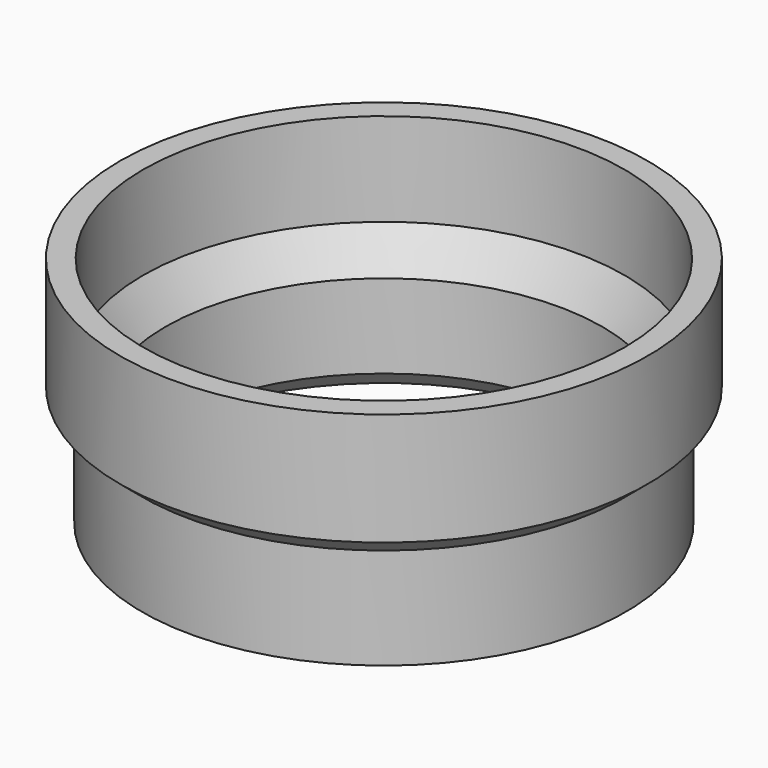
from build123d import *

# Parameters (mm, degrees)
F2_SIZE = 1.5


with BuildPart() as f1:
    # F0 (on Front) → F1 (revolve)
    with BuildSketch(Plane.XZ):
        Polygon((-20.7, 8), (-22.7, 8), (-22.7, -1.696607), (-20.8, -3.290897), (-20.8, -12), (-18.8, -12), (-18.8, -3.290897), (-20.7, 0), align=None)
    revolve(axis=Axis((0, 0, 4.153483), (0, 0, 1)))

    # F2
    f2_edges = [f1.edges().sort_by_distance(p)[0] for p in [
        (18.8, 0, -12),
    ]]
    chamfer(f2_edges, length=F2_SIZE)


solid = f1.part
